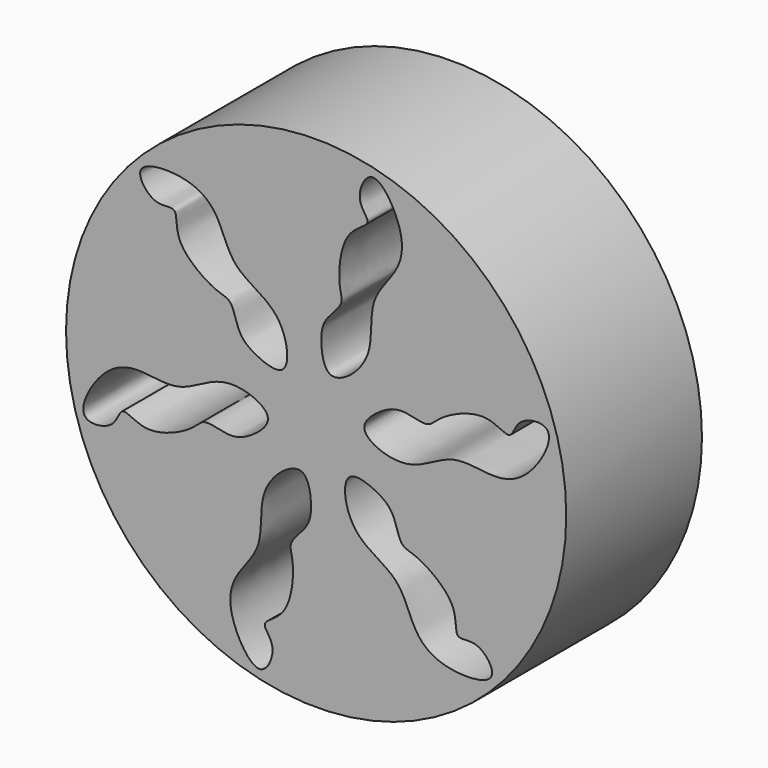
from build123d import *

# Parameters (mm, degrees)
F0_R     = 37.4444567859
F1_DEPTH = 25.4
F4_DEPTH = 59.7408
F5_COUNT = 6


with BuildPart() as f1:
    # F0 (on Front) → F1 (new body)
    with BuildSketch(Plane.XZ):
        Circle(F0_R)
    extrude(amount=F1_DEPTH)


with BuildPart() as f4:
    # F2 (on face) → F4 (new body)
    with BuildSketch(Plane.XZ.offset(25.4)):
        with BuildLine():
            add(Edge.make_bspline(
                [(-4.9313390628, 5.5213416927), (-3.8527743655, 6.5301804019), (-4.7653500153, 13.4527438419), (-12.7462372851, 15.8214959101), (-14.3552854857, 22.8322237722), (-18.8620111483, 26.4218837868), (-28.4103921251, 26.0726318991), (-24.2805334805, 20.464584193), (-20.4327709619, 22.1044471779), (-21.5809386301, 16.8516624506), (-15.1556620963, 12.3558899044), (-12.4894244541, 12.2429680046), (-11.8262853515, 8.0541449678), (-9.2593384135, 5.9407199408), (-5.7800143467, 4.7275307323), (-4.9313390628, 5.5213416927)],
                knots=[0, 0, 0, 0, 0.0892900309, 0.1875061009, 0.2761922625, 0.3611022218, 0.4518663962, 0.5224295847, 0.5808292109, 0.6479657938, 0.7432045176, 0.7972420236, 0.8630920632, 0.9297415885, 1, 1, 1, 1], degree=3))
        make_face()
    extrude(amount=-F4_DEPTH)


with BuildPart() as f5_1:
    # F5: instance of F4
    add(f4.part.rotate(Axis((0, -15.6142441556, 0), (0, 1, 0)), 1 * 360 / F5_COUNT))


with BuildPart() as f5_2:
    # F5: instance of F4
    add(f4.part.rotate(Axis((0, -15.6142441556, 0), (0, 1, 0)), 2 * 360 / F5_COUNT))


with BuildPart() as f5_3:
    # F5: instance of F4
    add(f4.part.rotate(Axis((0, -15.6142441556, 0), (0, 1, 0)), 3 * 360 / F5_COUNT))


with BuildPart() as f5_4:
    # F5: instance of F4
    add(f4.part.rotate(Axis((0, -15.6142441556, 0), (0, 1, 0)), 4 * 360 / F5_COUNT))


with BuildPart() as f5_5:
    # F5: instance of F4
    add(f4.part.rotate(Axis((0, -15.6142441556, 0), (0, 1, 0)), 5 * 360 / F5_COUNT))


with BuildPart() as f1_1:
    add(f1.part)

    # F6: cut F4, F5_1, F5_2, F5_3, F5_4, F5_5
    add(f4.part, mode=Mode.SUBTRACT)
    add(f5_1.part, mode=Mode.SUBTRACT)
    add(f5_2.part, mode=Mode.SUBTRACT)
    add(f5_3.part, mode=Mode.SUBTRACT)
    add(f5_4.part, mode=Mode.SUBTRACT)
    add(f5_5.part, mode=Mode.SUBTRACT)


solid = f1_1.part
